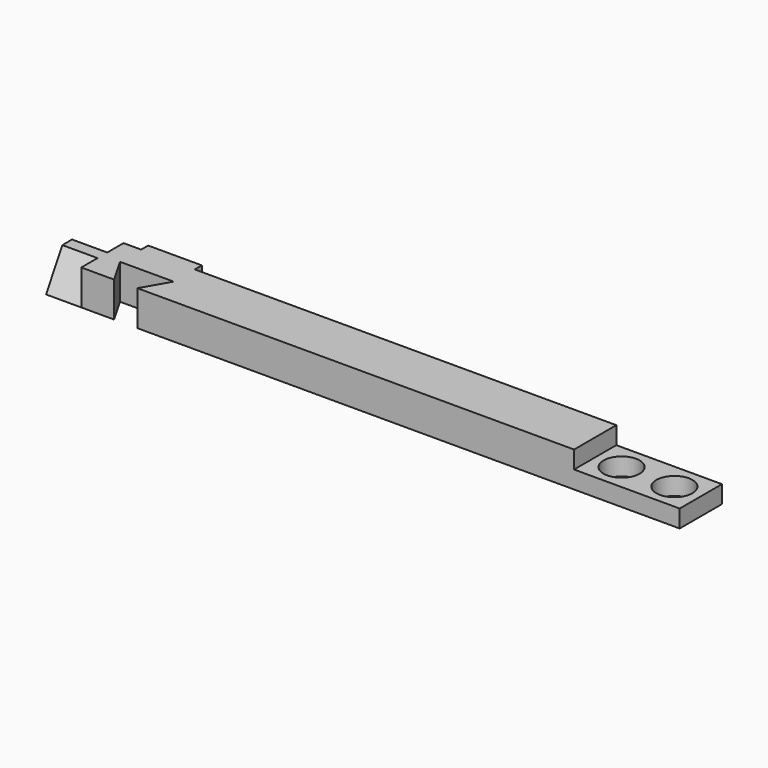
from build123d import *

# Parameters (mm, degrees)
SKETCH_W        = 170
SKETCH_H        = 15
PAD_DEPTH       = 10
SKETCH001_W     = 35
SKETCH001_H     = 25
POCKET_DEPTH    = 5
PAD002_DEPTH    = 10
POCKET001_DEPTH = 10
SKETCH002_R     = 5.125
POCKET002_DEPTH = 5
SKETCH005_W     = 15.25
SKETCH005_H     = 10
PAD003_DEPTH    = 2.5


with BuildPart() as part:
    # Sketch → Pad (new body)
    with BuildSketch(Plane.XY):
        with Locations((-20.728933, -1.58076)):
            Rectangle(SKETCH_W, SKETCH_H)
    extrude(amount=PAD_DEPTH)

    # Sketch001 (on Face6 of Pad) → Pocket (cut)
    with BuildSketch(Plane.XY.offset(10)):
        with Locations((51.771067, -1.58076)):
            Rectangle(SKETCH001_W, SKETCH001_H)
    extrude(amount=-POCKET_DEPTH, mode=Mode.SUBTRACT)

    # Sketch003 → Pad002 (join)
    with BuildSketch(Plane(origin=(-105.728933, 0, 0), x_dir=(0, -1, 0), z_dir=(-1, 0, 0))):
        Polygon((-5.91924, 0), (-0.145737, 10), (3.307257, 10), (9.08076, 0), align=None)
    extrude(amount=PAD002_DEPTH)

    # Sketch004 (on Face3 of Pad002) → Pocket001 (cut)
    with BuildSketch(Plane.XY.offset(10)):
        Polygon((-93.103933, -14.787648), (-100.728933, -1.58076), (-85.478933, -1.58076), align=None)
    extrude(amount=-POCKET001_DEPTH, mode=Mode.SUBTRACT)

    # Sketch002 (on Face7 of Pocket) → Pocket002 (cut)
    with BuildSketch(Plane.XY.offset(5)):
        with Locations((56.771067, -1.58076)):
            Circle(SKETCH002_R)
        with Locations((41.771067, -1.58076)):
            Circle(SKETCH002_R)
    extrude(amount=-POCKET002_DEPTH, mode=Mode.SUBTRACT)

    # Sketch005 (on Face9 of Pocket002) → Pad003 (join)
    with BuildSketch(Plane(origin=(0, 5.91924, 0), x_dir=(-1, 0, 0), z_dir=(0, 1, 0))):
        with Locations((93.103933, 5)):
            Rectangle(SKETCH005_W, SKETCH005_H)
    extrude(amount=PAD003_DEPTH)


solid = part.part
